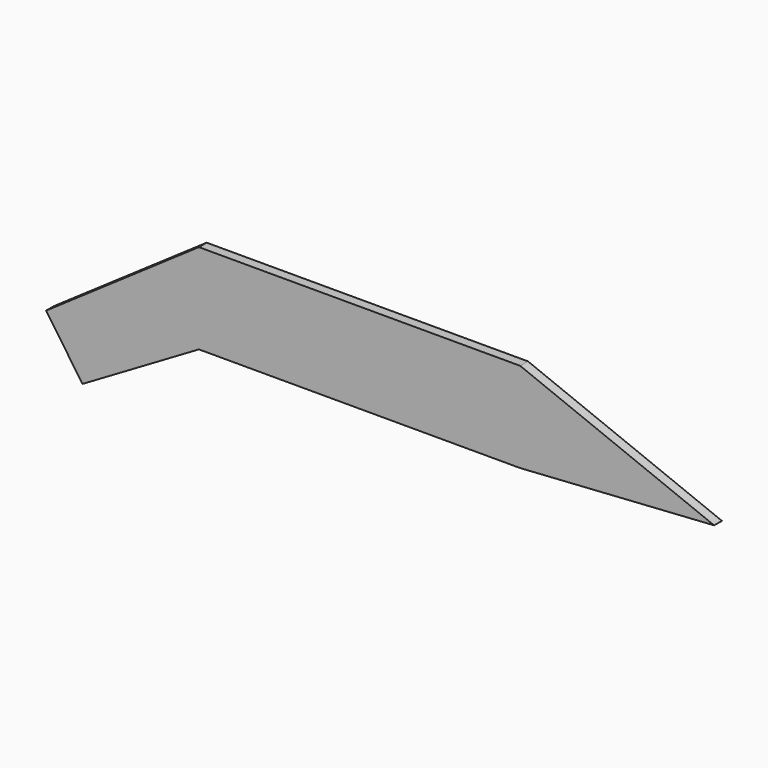
from build123d import *

# Parameters (mm, degrees)
F0_W     = 104.8465445638
F0_H     = 29.3750893325
F1_DEPTH = 3.175


with BuildPart() as f1:
    # F0 (on Front) → F1 (new body)
    with BuildSketch(Plane.XZ):
        with Locations((52.4232722819, -14.6875446662)):
            Rectangle(F0_W, F0_H)
        Polygon((0, -29.3750893325), (0, 0), (-49.862306565, -34.450892359), (-37.9780488038, -51.6515064277), align=None)
        Polygon((168.126553297, -25.249408558), (104.8465445638, 0), (104.8465445638, -29.3750893325), align=None)
    extrude(amount=F1_DEPTH)


solid = f1.part
